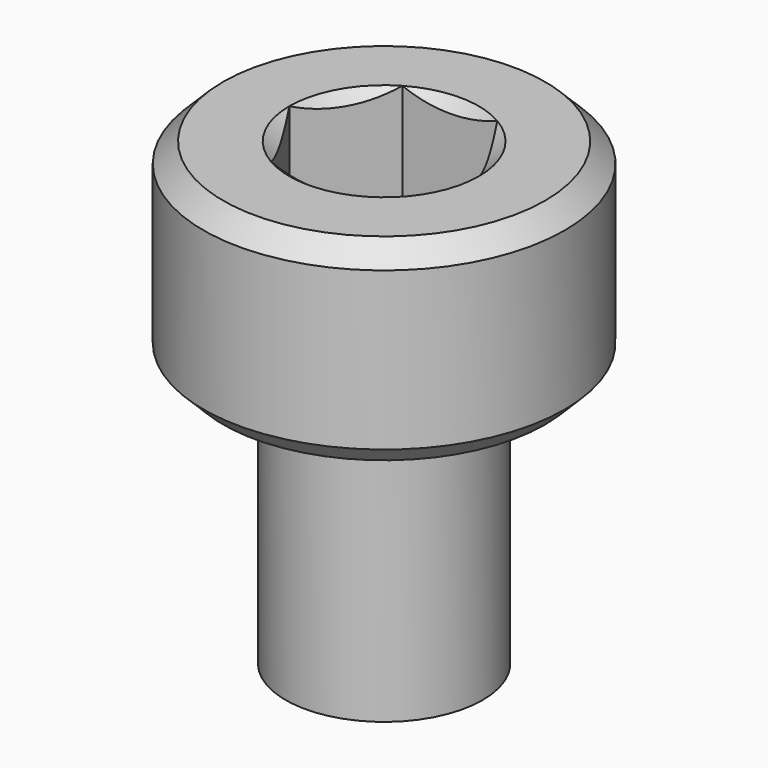
from build123d import *

# Parameters (mm, degrees)
F3_DEPTH = 2
F6_SIZE  = 0.3


with BuildPart() as f1:
    # F0 (on Front) → F1 (revolve)
    with BuildSketch(Plane.XZ):
        Polygon((2.75, 3), (0, 3), (0, -4), (1.5, -4), (1.5, 0), (2.75, 0), align=None)
    revolve(axis=Axis((0, 0, -0.5), (0, 0, -1)))

    # F2 (on face) → F3 (cut)
    with BuildSketch(Plane.XY.offset(3)):
        Polygon((1.443375673, 0), (0.7216878365, 1.25), (-0.7216878365, 1.25), (-1.443375673, 0), (-0.7216878365, -1.25), (0.7216878365, -1.25), align=None)
    extrude(amount=-F3_DEPTH, mode=Mode.SUBTRACT)

    # F4 (on Front) → F5 (revolve, cut)
    with BuildSketch(Plane.XZ):
        with BuildLine():
            Line((0, 2.5), (0, 7.1666666667))
            ThreePointArc((0, 7.1666666667), (-2.3333333333, 4.8333333333), (0, 2.5))
        make_face()
    revolve(axis=Axis((0, 0, 2.4166666667), (0, 0, -1)), mode=Mode.SUBTRACT)

    # F6
    f6_edges = [f1.edges().sort_by_distance(p)[0] for p in [
        (-2.75, 0, 3),
        (-2.75, 0, 0),
    ]]
    chamfer(f6_edges, length=F6_SIZE)


solid = f1.part
